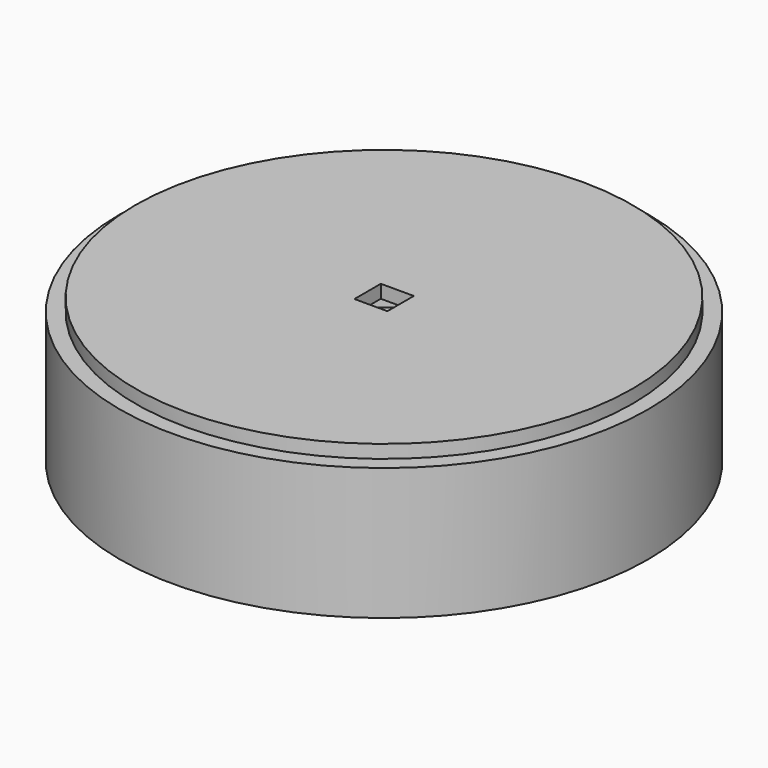
from build123d import *

# Parameters (mm, degrees)
F1_R     = 101.6
F1_R_2   = 95.643189
F2_DEPTH = 50.8
F3_R     = 95.67193
F4_DEPTH = 2.54
F5_R     = 95.643189
F6_DEPTH = 5.08
F7_W     = 12.7
F7_H     = 12.7
F8_DEPTH = 50.8


with BuildPart() as f2:
    # F1 (on face) → F2 (new body)
    with BuildSketch(Plane.XY):
        Circle(F1_R)
        Circle(F1_R_2, mode=Mode.SUBTRACT)
    extrude(amount=F2_DEPTH)

    # F3 (on face) → F4 (join)
    with BuildSketch(Plane.XY):
        Circle(F3_R)
    extrude(amount=F4_DEPTH)


with BuildPart() as f6:
    # F5 (on face) → F6 (new body)
    with BuildSketch(Plane.XY.offset(50.8)):
        Circle(F5_R)
    extrude(amount=F6_DEPTH)

    # F7 (on face) → F8 (cut)
    with BuildSketch(Plane.XY.offset(55.88)):
        with Locations((0.270761, -0.281108)):
            Rectangle(F7_W, F7_H)
    extrude(amount=-F8_DEPTH, mode=Mode.SUBTRACT)


solid = Compound([f2.part, f6.part])
